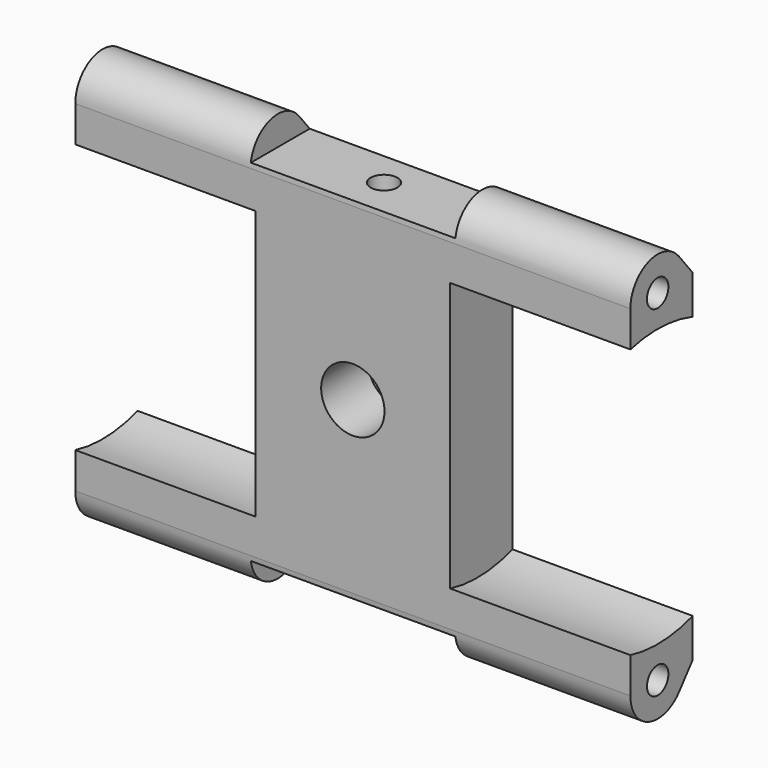
from build123d import *

# Parameters (mm, degrees)
PAD_DEPTH       = 28.5
SKETCH001_R     = 14.25
POCKET_DEPTH    = 18.5
SKETCH002_R     = 1.375
POCKET001_DEPTH = 12
SKETCH003_W     = 4
SKETCH003_H     = 10.5
POCKET002_DEPTH = 8
SKETCH004_R     = 1.75
POCKET003_DEPTH = 8
SKETCH005_R     = 3.25
POCKET004_DEPTH = 6
SKETCH006_R     = 1.375
POCKET005_DEPTH = 10
SKETCH007_R     = 1.375
POCKET006_DEPTH = 10


with BuildPart() as recess_pocket:
    # Sketch → Pad (new body)
    with BuildSketch(Plane.YZ):
        with BuildLine():
            ThreePointArc((2.722222, 19.699888), (-1.166667, 20.799832), (-3.5, 17.5))
            Line((-3.5, 17.5), (-3.5, -17.5))
            ThreePointArc((-3.5, -17.5), (-1.166657, -20.799835), (2.722235, -19.699872))
            Line((2.722235, -19.699872), (4.5, -17.5))
            Line((4.5, 17.5), (4.5, -17.5))
            Line((4.5, 17.5), (2.722222, 19.699888))
        make_face()
    extrude(amount=PAD_DEPTH)

    # Sketch001 → Pocket (cut)
    with BuildSketch(Plane.YZ.offset(28.5)):
        Circle(SKETCH001_R)
    extrude(amount=-POCKET_DEPTH, mode=Mode.SUBTRACT)

    # Sketch002 → Pocket001 (cut)
    with BuildSketch(Plane.YZ.offset(28.5)):
        with Locations((0, -17.5)):
            Circle(SKETCH002_R)
        with Locations((0, 17.5)):
            Circle(SKETCH002_R)
    extrude(amount=-POCKET001_DEPTH, mode=Mode.SUBTRACT)

    # Sketch003 → Pocket002 (cut)
    with BuildSketch(Plane(origin=(0, -3.5, 0), x_dir=(0, 0, -1), z_dir=(0, -1, 0))):
        with Locations((-20, 5.25)):
            Rectangle(SKETCH003_W, SKETCH003_H)
        with Locations((20, 5.25)):
            Rectangle(SKETCH003_W, SKETCH003_H)
    extrude(amount=-POCKET002_DEPTH, mode=Mode.SUBTRACT)


with BuildPart() as bottom_screw_hole_pocket:
    # Part__Mirroring: instance of recess-pocket
    add(recess_pocket.part.mirror(Plane(origin=(0, 0, 0), x_dir=(0, -1, 0), z_dir=(1, 0, 0))))

    # Fusion: union recess-pocket
    add(recess_pocket.part)

    # Sketch004 → Pocket003 (cut)
    with BuildSketch(Plane.XZ.offset(3.5)):
        Circle(SKETCH004_R)
    extrude(amount=-POCKET003_DEPTH, mode=Mode.SUBTRACT)

    # Sketch005 → Pocket004 (cut)
    with BuildSketch(Plane.XZ.offset(3.5)):
        Circle(SKETCH005_R)
    extrude(amount=-POCKET004_DEPTH, mode=Mode.SUBTRACT)

    # Sketch006 → Pocket005 (cut)
    with BuildSketch(Plane.XY.offset(18)):
        with Locations((0, 0.5)):
            Circle(SKETCH006_R)
    extrude(amount=-POCKET005_DEPTH, mode=Mode.SUBTRACT)

    # Sketch007 → Pocket006 (cut)
    with BuildSketch(Plane(origin=(0, 0, -18), x_dir=(1, 0, 0), z_dir=(0, 0, -1))):
        with Locations((0, -0.5)):
            Circle(SKETCH007_R)
    extrude(amount=-POCKET006_DEPTH, mode=Mode.SUBTRACT)


solid = bottom_screw_hole_pocket.part
